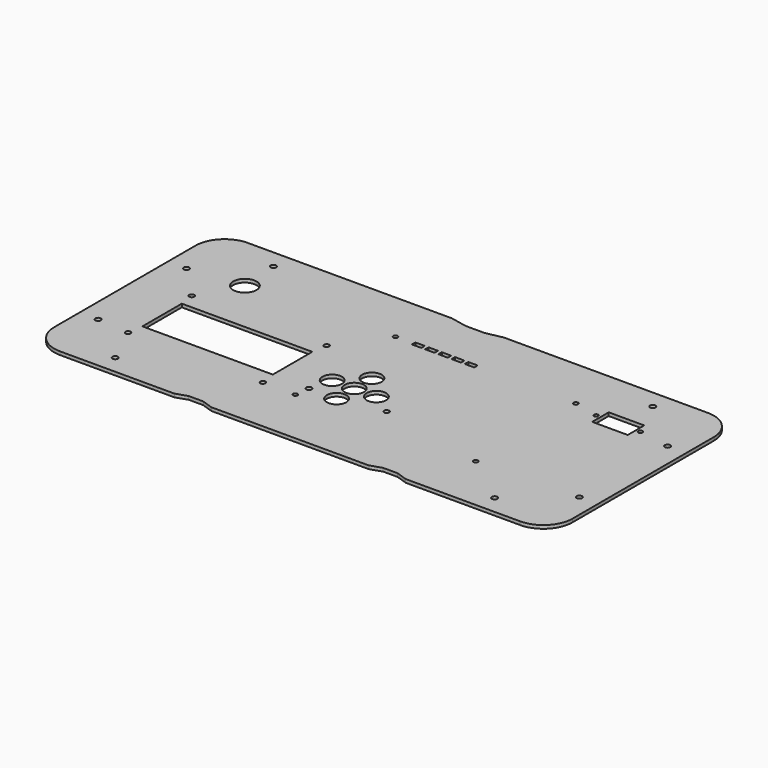
from build123d import *

# Parameters (mm, degrees)
F0_R     = 1.9
F0_R_2   = 8.05
F0_R_3   = 1.475
F0_W     = 24.5
F0_H     = 14.25
F3_DEPTH = 2.286
F2_R     = 1.75
F2_W     = 90
F2_H     = 34
F4_DEPTH = 2.286
F1_R     = 1.55
F1_R_2   = 1.9
F1_R_3   = 1.75
F1_R_4   = 6.72
F1_W     = 6.5
F1_H     = 3
F5_DEPTH = 2.286


with BuildPart() as f3:
    # F0 (on Top) → F3 (new body)
    with BuildSketch(Plane.XY):
        with BuildLine():
            Line((-17.961566, 79.945827), (-158.734, 79.945827))
            ThreePointArc((-158.734, 79.945827), (-172.922805, 74.068631), (-178.8, 59.879827))
            Line((-178.8, 59.879827), (-178.8, -61.988173))
            ThreePointArc((-178.8, -61.988173), (-172.922805, -76.176978), (-158.734, -82.054173))
            Line((-158.734, -82.054173), (-79.8, -82.054173))
            Line((-79.8, -82.054173), (-72.08434, -79.454173))
            Line((-72.08434, -79.454173), (-62.08434, -79.454173))
            Line((-62.08434, -79.454173), (-54.3, -82.054173))
            Line((-54.3, -82.054173), (54.3, -82.054173))
            Line((54.3, -82.054173), (62.084, -79.454173))
            Line((62.084, -79.454173), (72.084, -79.454173))
            Line((72.084, -79.454173), (79.8, -82.054173))
            Line((79.8, -82.054173), (158.734, -82.054173))
            ThreePointArc((158.734, -82.054173), (172.922805, -76.176978), (178.8, -61.988173))
            Line((178.8, -61.988173), (178.8, 59.879827))
            ThreePointArc((178.8, 59.879827), (172.922805, 74.068631), (158.734, 79.945827))
            Line((158.734, 79.945827), (17.961566, 79.945827))
            Line((17.961566, 79.945827), (6.5, 77.595827))
            Line((6.5, 77.595827), (-6.5, 77.595827))
            Line((-6.5, 77.595827), (-17.961566, 79.945827))
        make_face()
        with Locations((-130.9, -69.243173)):
            Circle(F0_R, mode=Mode.SUBTRACT)
        with Locations((-165.989, -40.1)):
            Circle(F0_R, mode=Mode.SUBTRACT)
        with Locations((130.9, -69.243173)):
            Circle(F0_R, mode=Mode.SUBTRACT)
        with Locations((165.989, -40.1)):
            Circle(F0_R, mode=Mode.SUBTRACT)
        with Locations((-165.989, 36.1)):
            Circle(F0_R, mode=Mode.SUBTRACT)
        with Locations((-128.8, 39.945827)):
            Circle(F0_R_2, mode=Mode.SUBTRACT)
        with Locations((-130.9, 67.134827)):
            Circle(F0_R, mode=Mode.SUBTRACT)
        with Locations((165.989, 36.1)):
            Circle(F0_R, mode=Mode.SUBTRACT)
        with Locations((113.525, 39.945827)):
            Circle(F0_R_3, mode=Mode.SUBTRACT)
        with Locations((128.8, 39.945827)):
            Rectangle(F0_W, F0_H, mode=Mode.SUBTRACT)
        with Locations((144.075, 39.95638)):
            Circle(F0_R_3, mode=Mode.SUBTRACT)
        with Locations((130.9, 67.134827)):
            Circle(F0_R, mode=Mode.SUBTRACT)
    extrude(amount=F3_DEPTH)

    # F2 (on face) → F4 (cut)
    with BuildSketch(Plane.XY):
        with Locations((-143.8, 12.895827)):
            Circle(F2_R)
        with Locations((-143.8, -42.054173)):
            Circle(F2_R)
        with Locations((-50.75, 12.895827)):
            Circle(F2_R)
        with Locations((-50.75, -42.054173)):
            Circle(F2_R)
        with Locations((-97.275, -14.579173)):
            Rectangle(F2_W, F2_H)
    extrude(amount=F4_DEPTH, mode=Mode.SUBTRACT)

    # F1 (on face) → F5 (cut)
    with BuildSketch(Plane.XY):
        with Locations((96.275749, -42.242036)):
            Circle(F1_R)
        with Locations((96.275749, 44.117964)):
            Circle(F1_R)
        with Locations((-28.2, 44.117964)):
            Circle(F1_R)
        with Locations((-28.2, -42.242036)):
            Circle(F1_R)
        with Locations((-26.94, -32.082036)):
            Circle(F1_R_2)
        with Locations((22.6, -27.002036)):
            Circle(F1_R_3)
        with Locations((-23.12, -16.842036)):
            Circle(F1_R_4)
        with Locations((-7.88, -16.842036)):
            Circle(F1_R_4)
        with Locations((-7.88, -1.602036)):
            Circle(F1_R_4)
        with Locations((7.36, -16.842036)):
            Circle(F1_R_4)
        with Locations((-7.88, -32.082036)):
            Circle(F1_R_4)
        with Locations((-12.49, 44.157964)):
            Rectangle(F1_W, F1_H)
        with Locations((-3.365, 44.157964)):
            Rectangle(F1_W, F1_H)
        with Locations((5.76, 44.157964)):
            Rectangle(F1_W, F1_H)
        with Locations((14.885, 44.157964)):
            Rectangle(F1_W, F1_H)
        with Locations((24.01, 44.157964)):
            Rectangle(F1_W, F1_H)
    extrude(amount=F5_DEPTH, mode=Mode.SUBTRACT)


solid = f3.part
